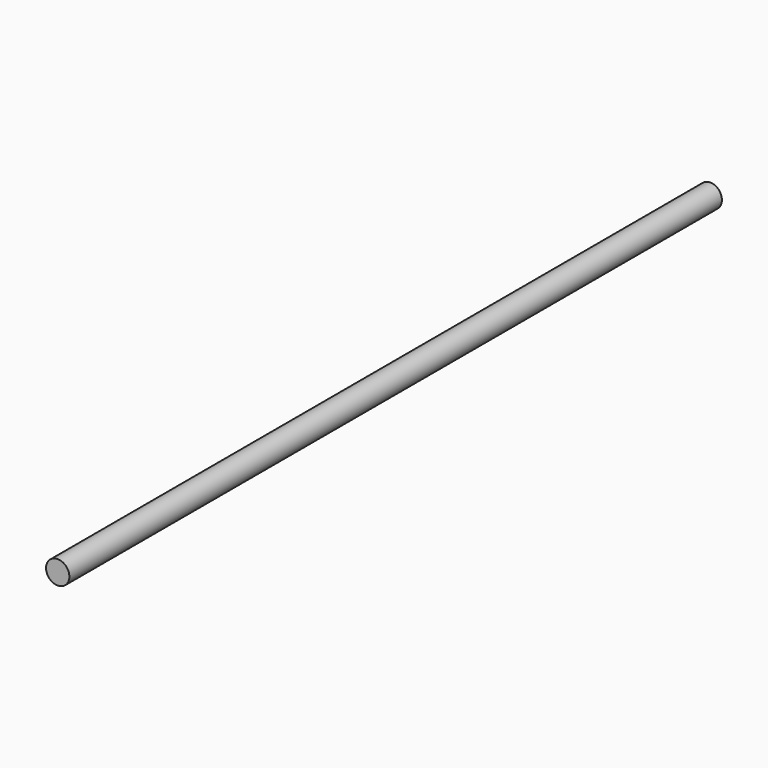
from build123d import *

# Parameters (mm, degrees)
F0_R = 1


with BuildPart() as f2:
    # F2: sweep along a path in F1
    with BuildLine(Plane.XY) as f2_path:
        Line((0, 0), (0, 70))
    # F0 (on Front) → F2 (sweep)
    with BuildSketch(Plane.XZ):
        Circle(F0_R)
    sweep(path=f2_path.line)


solid = f2.part
